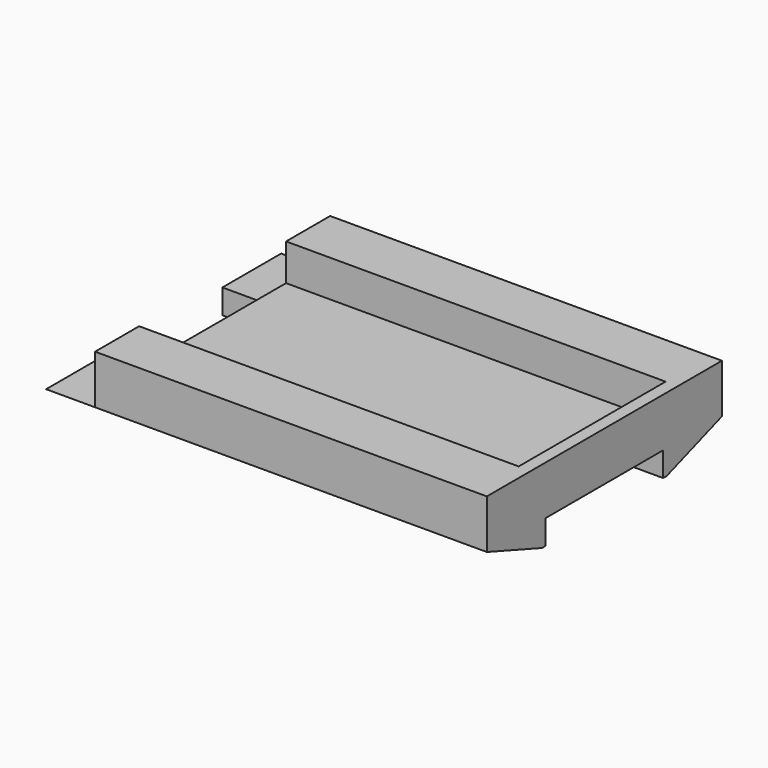
from build123d import *

# Parameters (mm, degrees)
F0_W     = 203.2
F0_H     = 152.4
F1_DEPTH = 25.4
F3_DEPTH = 177.8
F4_W     = 146.05
F4_H     = 95.25
F5_DEPTH = 19.05
F6_DEPTH = 50.8
F7_W     = 50.8
F7_H     = 95.25
F8_DEPTH = 19.05


with BuildPart() as f1:
    # F0 (on Top) → F1 (new body)
    with BuildSketch(Plane.XY):
        Rectangle(F0_W, F0_H)
    extrude(amount=F1_DEPTH)

    # F2 (on face) → F3 (join)
    with BuildSketch(Plane.YZ.offset(101.6)):
        Polygon((-38.1, -12.7), (-38.1, 0), (-76.2, 0), (-40.426615, -12.7), align=None)
        Polygon((76.2, 0), (38.1, 0), (38.1, -12.7), (40.426615, -12.7), align=None)
    extrude(amount=-F3_DEPTH)

    # F4 (on face) → F5 (cut)
    with BuildSketch(Plane.XY.offset(25.4)):
        with Locations((-28.575, 0)):
            Rectangle(F4_W, F4_H)
    extrude(amount=-F5_DEPTH, mode=Mode.SUBTRACT)

    # F3_face (on face) → F6 (join)
    with BuildSketch(Plane(origin=(-76.2, -50.844633, -4.476968), x_dir=(0, 1, 0), z_dir=(-1, 0, 0))):
        Polygon((12.744633, -4.476968), (12.744633, 8.223032), (10.418019, 8.223032), (-25.355367, -4.476968), align=None)
        Polygon((127.044633, -4.476968), (91.271248, 8.223032), (88.944633, 8.223032), (88.944633, -4.476968), align=None)
    extrude(amount=F6_DEPTH)

    # F7 (on face) → F8 (cut)
    with BuildSketch(Plane.XY.offset(25.4)):
        with Locations((69.85, 0)):
            Rectangle(F7_W, F7_H)
    extrude(amount=-F8_DEPTH, mode=Mode.SUBTRACT)


solid = f1.part
